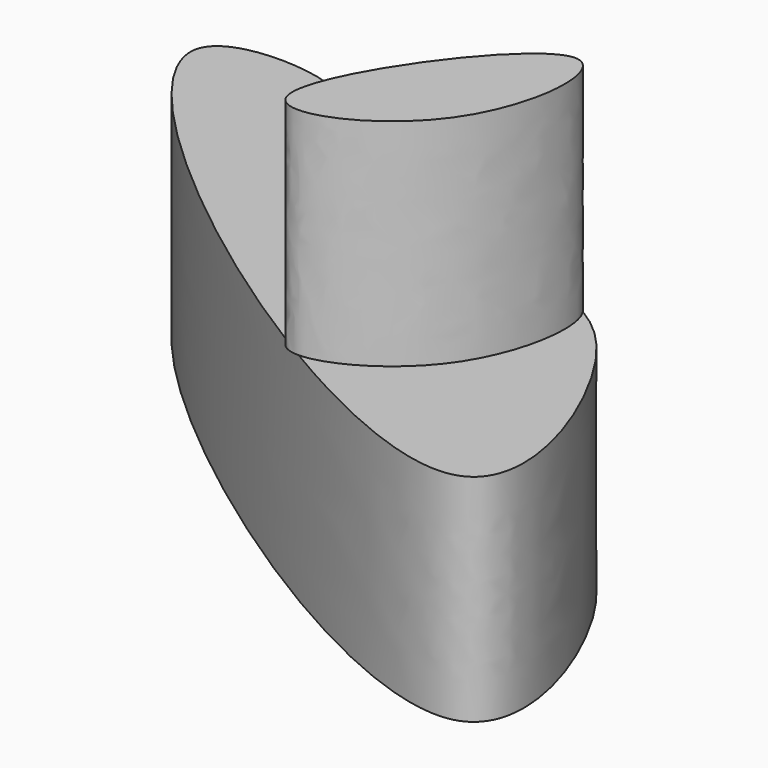
from build123d import *

# Parameters (mm, degrees)
F1_DEPTH = 25
F3_DEPTH = 25


with BuildPart() as f1:
    # F0 (on Top) → F1 (new body)
    with BuildSketch(Plane.XY):
        with BuildLine():
            add(Edge.make_bspline(
                [(0, 47.7343350649), (1.4061801322, 43.512260581), (34.5341140915, 35.3409947072), (51.2228243744, 32.4720549408), (62.7937433018, 1.8326789658), (55.1580488682, 0)],
                knots=[0, 0, 0, 0, 0.1866576356, 0.3407969756, 0.5067553391, 0.5067553391, 0.5067553391, 0.5067553391], degree=3))
            add(Edge.make_bspline(
                [(55.1580488682, 0), (41.2749689481, -3.3321433658), (-42.2851480379, 57.7865572118), (4.0968041505, 53.4580486609), (-0.4940529548, 49.2177356098), (0, 47.7343350649)],
                knots=[0.5067553391, 0.5067553391, 0.5067553391, 0.5067553391, 0.8084977991, 0.9344189593, 1, 1, 1, 1], degree=3))
        make_face()
    extrude(amount=F1_DEPTH)

    # F2 (on face) → F3 (join)
    with BuildSketch(Plane.XY.offset(25)):
        with BuildLine():
            add(Edge.make_bspline(
                [(27.1156606119, 11.0973266654), (25.7494398826, 15.9473261227), (46.9829992483, 46.0049134533), (45.7521077442, 14.0627103946), (28.1524345955, 7.416842868), (27.1156606119, 11.0973266654)],
                knots=[0, 0, 0, 0, 0.3951050712, 0.7001694896, 1, 1, 1, 1], degree=3))
        make_face()
    extrude(amount=F3_DEPTH)


solid = f1.part
